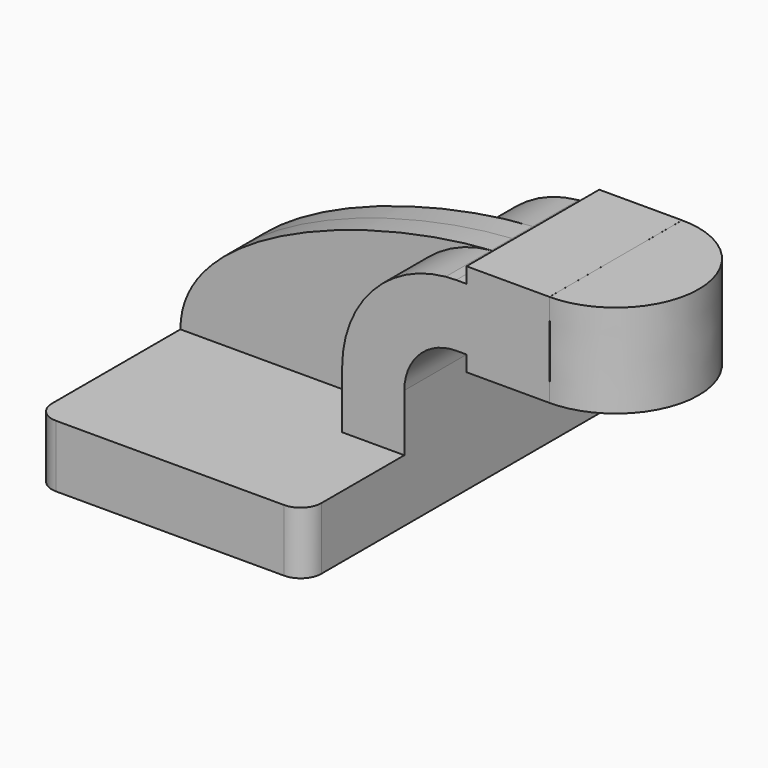
from build123d import *

# Parameters (mm, degrees)
F1_DEPTH = 63.5
F2_DEPTH = 25.4
F3_DEPTH = 7.9375
F5_R     = 6.35


with BuildPart() as f1:
    # F0 (on Front) → F1 (new body, symmetric)
    with BuildSketch(Plane.XZ):
        Polygon((22.225, 9.525), (-41.275, 9.525), (-41.275, -9.525), (41.275, -9.525), (41.275, 9.525), align=None)
    extrude(amount=F1_DEPTH, both=True)

    # F0 (on Front) → F2 (join, symmetric)
    with BuildSketch(Plane.XZ):
        Polygon((60.325, 66.675), (60.325, 61.9252), (60.325, 42.8752), (60.325, 38.1), (85.725, 38.1), (85.7119485736, 66.675), align=None)
        with BuildLine():
            Line((22.225, 27.0002), (22.225, 9.525))
            Line((22.225, 9.525), (41.275, 9.525))
            Line((41.275, 9.525), (41.275, 27.0002))
            ThreePointArc((41.275, 27.0002), (45.9246798487, 38.2255201513), (57.15, 42.8752))
            Line((57.15, 42.8752), (60.325, 42.8752))
            Line((60.325, 42.8752), (60.325, 61.9252))
            Line((60.325, 61.9252), (57.15, 61.9252))
            add(Edge.make_bspline(
                [(53.9335842921, 61.7767768154), (55.0269644588, 61.8422704469), (56.0998451994, 61.891809488), (57.15, 61.9252)],
                knots=[108.2465498162, 108.2465498162, 108.2465498162, 108.2465498162, 111.5045361635, 111.5045361635, 111.5045361635, 111.5045361635], degree=3))
            ThreePointArc((53.9335842921, 61.7767768154), (31.3421625897, 50.5312678296), (22.225, 27.0002))
        make_face()
    extrude(amount=F2_DEPTH, both=True)

    # F0 (on Front) → F3 (join, symmetric)
    with BuildSketch(Plane.XZ):
        with BuildLine():
            add(Edge.make_bspline(
                [(-41.275, 9.525), (-41.350806268, 39.8124596895), (17.6060438856, 59.6007518438), (53.9335842921, 61.7767768154)],
                knots=[0, 0, 0, 0, 108.2465498162, 108.2465498162, 108.2465498162, 108.2465498162], degree=3))
            Line((-41.275, 9.525), (22.225, 9.525))
            Line((22.225, 9.525), (22.225, 27.0002))
            ThreePointArc((22.225, 27.0002), (31.3421625897, 50.5312678296), (53.9335842921, 61.7767768154))
        make_face()
    extrude(amount=F3_DEPTH, both=True)

    # F5
    f5_edges = [f1.edges().sort_by_distance(p)[0] for p in [
        (41.275, -63.5, 0),
        (-41.275, -63.5, 0),
        (41.275, 63.5, 0),
        (-41.275, 63.5, 0),
    ]]
    fillet(f5_edges, radius=F5_R)


with BuildPart() as f4:
    # F0 (on Front) → F4 (revolve)
    with BuildSketch(Plane.XZ):
        Polygon((111.125, 66.675), (85.7119485736, 66.675), (85.725, 38.1), (111.125, 38.1), align=None)
    revolve(axis=Axis((85.7184742868, 0, 52.3875), (-0.0004567428, 0, 0.9999998957)))


solid = Compound([f1.part, f4.part])
